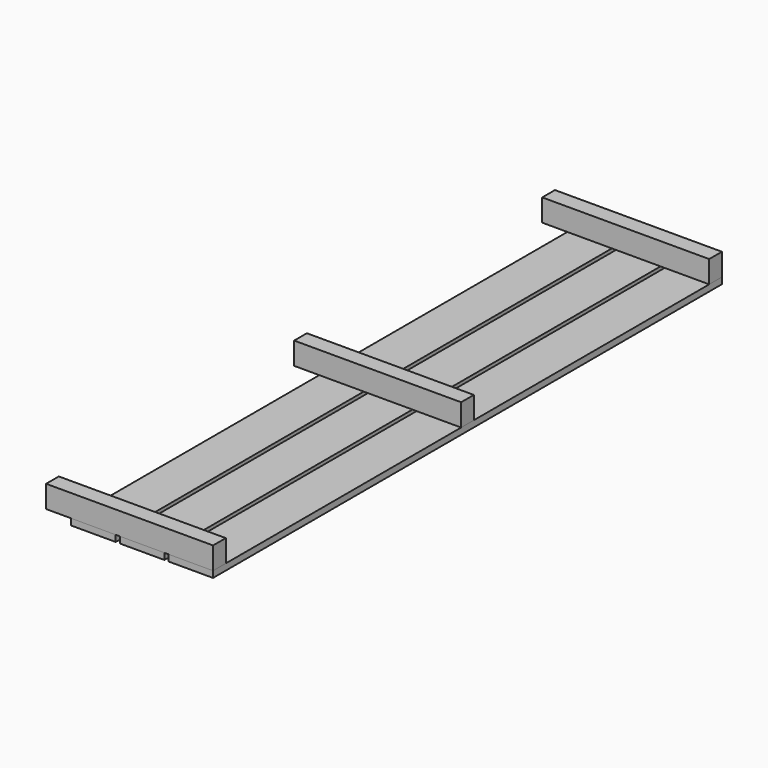
from build123d import *

# Parameters (mm, degrees)
F0_W     = 140
F0_H     = 20
F1_DEPTH = 2000
F2_W     = 50
F2_H     = 70
F3_W     = 50
F3_H     = 70
F4_DEPTH = 525


with BuildPart() as f1:
    # F0 (on Front) → F1 (new body)
    with BuildSketch(Plane.XZ):
        with Locations((70, 10)):
            Rectangle(F0_W, F0_H)
        with Locations((223, 10)):
            Rectangle(F0_W, F0_H)
        with Locations((376, 10)):
            Rectangle(F0_W, F0_H)
    extrude(amount=F1_DEPTH)


with BuildPart() as f4:
    # F2 (on face) + F3 (on face) → F4 (new body)
    with BuildSketch(Plane.YZ.offset(446)):
        with Locations((-1975, 55)):
            Rectangle(F2_W, F2_H)
        with Locations((-25, 55)):
            Rectangle(F2_W, F2_H)
    with BuildSketch(Plane.YZ.offset(446)):
        with Locations((-1000, 55)):
            Rectangle(F3_W, F3_H)
    extrude(amount=-F4_DEPTH)


solid = Compound([f1.part, f4.part])
